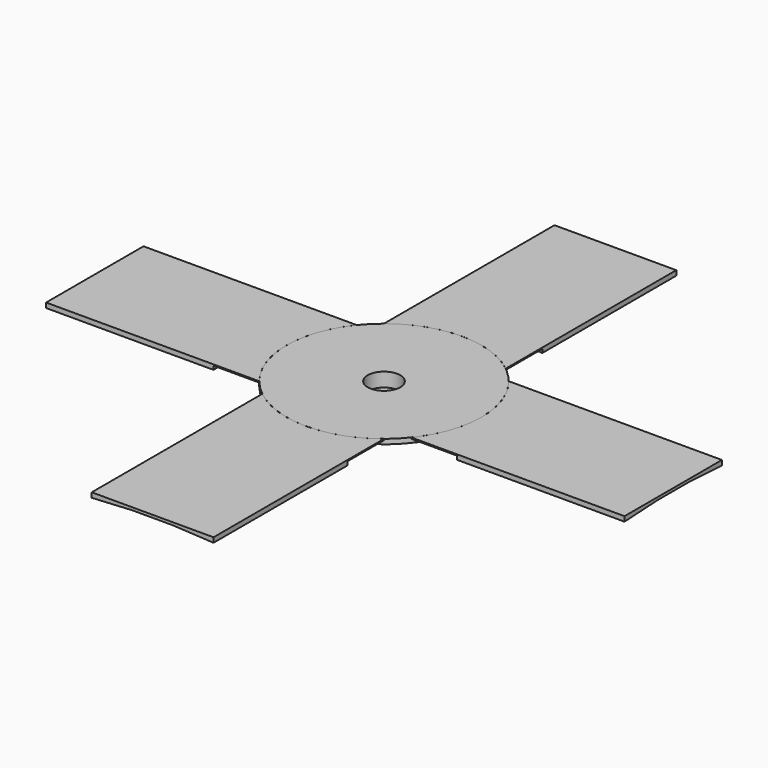
from build123d import *

# Parameters (mm, degrees)
F3_DEPTH  = 0.4
F7_R      = 6.55
F7_R_2    = 1.55
F8_DEPTH  = 1.6
F9_R      = 5.35
F10_DEPTH = 10
F11_DEPTH = 1
F12_DEPTH = 30
F13_W     = 90
F13_H     = 40
F14_DEPTH = 1.2
F16_DEPTH = 90
F17_DEPTH = 15
F18_DEPTH = 15
F19_DEPTH = 35
F20_COUNT = 4


with BuildPart() as f1:
    # F0 (on Front) → F1 (revolve)
    with BuildSketch(Plane.XZ):
        Polygon((1.55, 0.8), (32, 0), (32, 0.8), (32, 1.6), (1.55, 1.6), (1.55, 1.2), align=None)
    revolve(axis=Axis((0, 0, 0.6), (0, 0, 1)))



with BuildPart() as f3:
    # F2 (on face) → F3 (new body)
    with BuildSketch(Plane.XY.offset(1.6)):
        with BuildLine():
            Line((100, -20), (100, 10))
            Line((100, 10), (100, 20))
            Line((100, 20), (24.9799919936, 20))
            ThreePointArc((24.9799919936, 20), (30.1940370255, 10.5981190832), (32, 0))
            ThreePointArc((32, 0), (30.1940370255, -10.5981190832), (24.9799919936, -20))
            Line((24.9799919936, -20), (100, -20))
        make_face()
    extrude(amount=-F3_DEPTH)

    # F12 (add): a face of the model
    f12_faces = [f3.faces().sort_by_distance(p)[0] for p in [
        (100, 0, 1.4),
    ]]
    extrude(f12_faces, amount=F12_DEPTH)

    # F13 (on face) → F14 (join)
    with BuildSketch(Plane(origin=(0, 0, 1.2), x_dir=(1, 0, 0), z_dir=(0, 0, -1))):
        with Locations((85, 0)):
            Rectangle(F13_W, F13_H)
    extrude(amount=F14_DEPTH)

    # F15 (on face) → F16 (cut)
    with BuildSketch(Plane.YZ.offset(130)):
        with BuildLine():
            Line((-20, 0), (20, 0))
            ThreePointArc((20, 0), (0, 0.8), (-20, 0))
        make_face()
    extrude(amount=-F16_DEPTH, mode=Mode.SUBTRACT)

    # F19 (cut): a face of the model
    f19_faces = [f3.faces().sort_by_distance(p)[0] for p in [
        (130, 0, 1.0400932535),
    ]]
    extrude(f19_faces, amount=-F19_DEPTH, mode=Mode.SUBTRACT)


with BuildPart() as f6:
    # F5 (on Front) → F6 (revolve)
    with BuildSketch(Plane.XZ):
        Polygon((1.55, -18), (1.55, -20), (6.55, -20), (6.55, 0), (5.35, 0), (5.35, -18), align=None)
    revolve(axis=Axis((0, 0, -10), (0, 0, -1)))


with BuildPart() as f1_1:
    add(f1.part)

    add(f6.part)  # F8 merges F6
    # F7 (on face) → F8 (join)
    with BuildSketch(Plane.XY.offset(1.6)):
        Circle(F7_R)
        Circle(F7_R_2, mode=Mode.SUBTRACT)
    extrude(amount=-F8_DEPTH)

    # F9 (on face) → F10 (cut)
    with BuildSketch(Plane.XY.offset(1.6)):
        Circle(F9_R)
    extrude(amount=-F10_DEPTH, mode=Mode.SUBTRACT)

    # F11 (cut): a face of the model
    f11_faces = [f1_1.faces().sort_by_distance(p)[0] for p in [
        (-1.7352619767, 0, -20),
    ]]
    extrude(f11_faces, amount=-F11_DEPTH, mode=Mode.SUBTRACT)

    # F17 (add): a face of the model
    f17_faces = [f1_1.faces().sort_by_distance(p)[0] for p in [
        (-5.1986791488, 0, -18),
    ]]
    extrude(f17_faces, amount=F17_DEPTH)

    # F18 (cut): a face of the model
    f18_faces = [f1_1.faces().sort_by_distance(p)[0] for p in [
        (-1.7352619767, 0, -19),
    ]]
    extrude(f18_faces, amount=-F18_DEPTH, mode=Mode.SUBTRACT)


with BuildPart() as f20_1:
    # F20: instance of F3
    add(f3.part.rotate(Axis((0, 0, 4.4307312299), (0, 0, 1)), 1 * 360 / F20_COUNT))


with BuildPart() as f20_2:
    # F20: instance of F3
    add(f3.part.rotate(Axis((0, 0, 4.4307312299), (0, 0, 1)), 2 * 360 / F20_COUNT))


with BuildPart() as f20_3:
    # F20: instance of F3
    add(f3.part.rotate(Axis((0, 0, 4.4307312299), (0, 0, 1)), 3 * 360 / F20_COUNT))


solid = Compound([f3.part, f1_1.part, f20_1.part, f20_2.part, f20_3.part])
